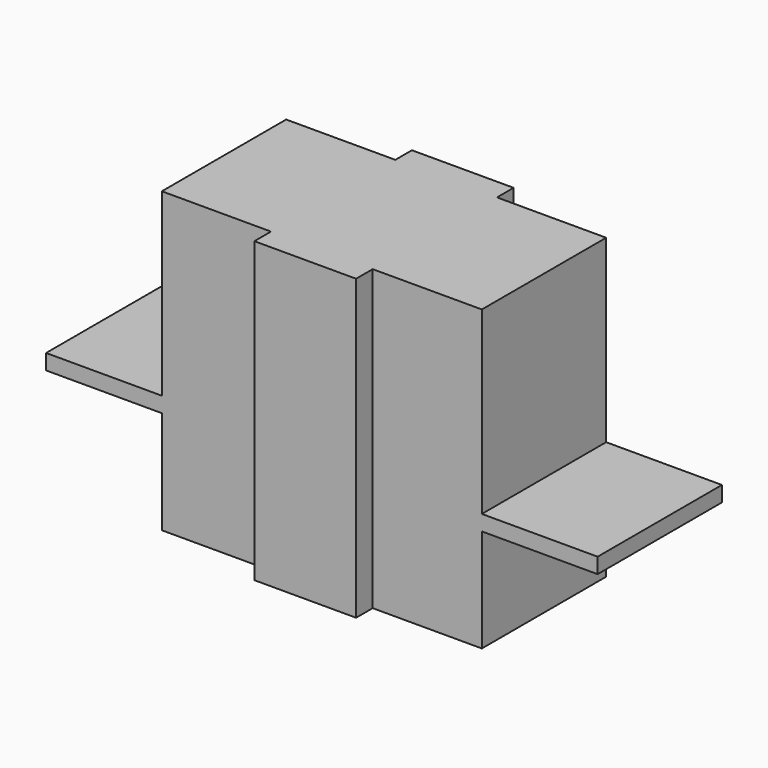
from build123d import *

# Parameters (mm, degrees)
F0_W     = 752.5
F0_H     = 100
F1_DEPTH = 505
F2_W     = 661
F2_H     = 1940
F3_DEPTH = 640


with BuildPart() as f1:
    # F0 (on Front) → F1 (new body, symmetric)
    with BuildSketch(Plane.XZ):
        Polygon((-1040, 770), (-1040, 670), (-1040, 0), (0, 0), (0, 1940), (-1040, 1940), align=None)
        Polygon((0, 1940), (0, 0), (1040, 0), (1040, 670), (1040, 770), (1040, 1940), align=None)
        with Locations((1416.25, 720)):
            Rectangle(F0_W, F0_H)
        with Locations((-1416.25, 720)):
            Rectangle(F0_W, F0_H)
    extrude(amount=F1_DEPTH, both=True)

    # F2 (on Front) → F3 (join, symmetric)
    with BuildSketch(Plane.XZ):
        with Locations((0, 970)):
            Rectangle(F2_W, F2_H)
    extrude(amount=F3_DEPTH, both=True)


solid = f1.part
